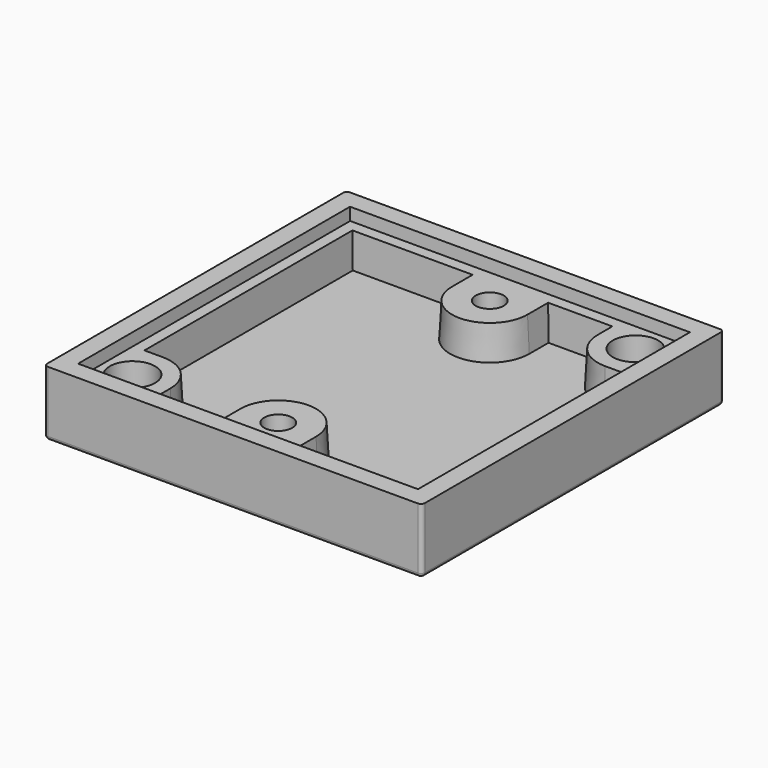
from build123d import *

# Parameters (mm, degrees)
F0_W     = 50
F0_H     = 50
F1_DEPTH = 8.6
F2_W     = 45
F2_H     = 45
F3_DEPTH = 1.6
F3_TAPER = 3
F5_DEPTH = 4.5
F5_TAPER = 3
F6_R     = 1.85
F6_R_2   = 3
F7_DEPTH = 7
F8_R     = 3.5
F9_DEPTH = 4
F10_R    = 0.5


with BuildPart() as f1:
    # F0 (on Top) → F1 (new body)
    with BuildSketch(Plane.XY):
        Rectangle(F0_W, F0_H)
    extrude(amount=-F1_DEPTH)

    # F2 (on face) → F3 (cut)
    with BuildSketch(Plane.XY):
        Rectangle(F2_W, F2_H)
    extrude(amount=-F3_DEPTH, taper=F3_TAPER, mode=Mode.SUBTRACT)

    # F4 (on face) → F5 (cut)
    with BuildSketch(Plane.XY.offset(-1.6)):
        with BuildLine():
            Line((13.5, 18.5), (13.5, 20.9161475531))
            Line((13.5, 20.9161475531), (5, 20.9161475531))
            Line((5, 20.9161475531), (5, 17.5))
            ThreePointArc((5, 17.5), (0, 12.5), (-5, 17.5))
            Line((-5, 17.5), (-5, 20.9161475531))
            Line((-5, 20.9161475531), (-20.9161475531, 20.9161475531))
            Line((-20.9161475531, 20.9161475531), (-20.9161475531, -13.5))
            Line((-20.9161475531, -13.5), (-18.5, -13.5))
            ThreePointArc((-18.5, -13.5), (-14.9644660941, -14.9644660941), (-13.5, -18.5))
            Line((-13.5, -18.5), (-13.5, -20.9161475531))
            Line((-13.5, -20.9161475531), (-5, -20.9161475531))
            Line((-5, -20.9161475531), (-5, -17.5))
            ThreePointArc((-5, -17.5), (0, -12.5), (5, -17.5))
            Line((5, -17.5), (5, -20.9161475531))
            Line((5, -20.9161475531), (20.9161475531, -20.9161475531))
            Line((20.9161475531, -20.9161475531), (20.9161475531, 13.5))
            Line((20.9161475531, 13.5), (18.5, 13.5))
            ThreePointArc((18.5, 13.5), (14.9644660941, 14.9644660941), (13.5, 18.5))
        make_face()
    extrude(amount=-F5_DEPTH, taper=F5_TAPER, mode=Mode.SUBTRACT)

    # F6 (on face) → F7 (cut, through all)
    with BuildSketch(Plane.XY.offset(-1.6)):
        with Locations((0, 17.5)):
            Circle(F6_R)
        with Locations((18.5, 18.5)):
            Circle(F6_R_2)
        with Locations((0, -17.5)):
            Circle(F6_R)
        with Locations((-18.5, -18.5)):
            Circle(F6_R_2)
    extrude(amount=-F7_DEPTH, mode=Mode.SUBTRACT)

    # F8 (on face) → F9 (cut)
    with BuildSketch(Plane(origin=(0, 0, -8.6), x_dir=(1, 0, 0), z_dir=(0, 0, -1))):
        with Locations((0, 17.5)):
            Circle(F8_R)
        with Locations((0, -17.5)):
            Circle(F8_R)
    extrude(amount=-F9_DEPTH, mode=Mode.SUBTRACT)

    # F10
    f10_edges = [f1.edges().sort_by_distance(p)[0] for p in [
        (0, -25, -8.6),
        (-25, -25, -4.3),
        (-25, 0, -8.6),
        (-21.5, -18.5, -8.6),
        (15.5, 18.5, -8.6),
        (-25, 25, -4.3),
        (0, 25, -8.6),
        (25, 25, -4.3),
        (25, 0, -8.6),
        (25, -25, -4.3),
    ]]
    fillet(f10_edges, radius=F10_R)


solid = f1.part
